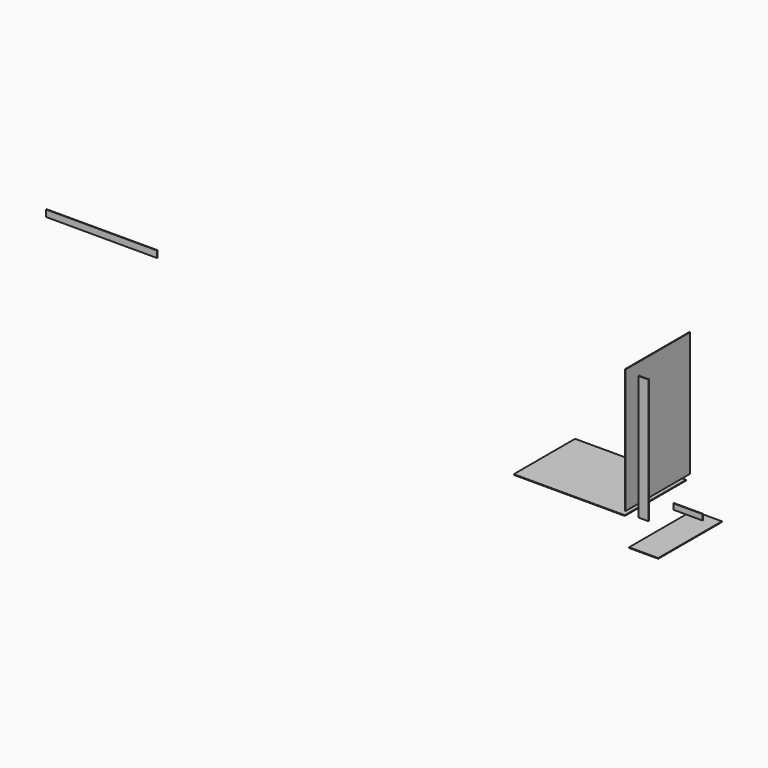
from build123d import *

# Parameters (mm, degrees)
F0_W      = 1063.625
F0_H      = 733.425
F1_DEPTH  = 6.35
F2_W      = 774.7
F2_H      = 1193.8
F3_DEPTH  = 6.35
F4_W      = 95.25
F4_H      = 1193.8
F5_DEPTH  = 6.35
F6_W      = 279.4
F6_H      = 762
F7_DEPTH  = 6.35
F8_W      = 279.4
F8_H      = 53.975
F9_DEPTH  = 6.35
F10_W     = 1063.625
F10_H     = 63.5
F11_DEPTH = 6.35


with BuildPart() as f1:
    # F0 (on Top) → F1 (new body)
    with BuildSketch(Plane.XY):
        Rectangle(F0_W, F0_H)
    extrude(amount=F1_DEPTH)


with BuildPart() as f3:
    # F2 (on face) → F3 (new body)
    with BuildSketch(Plane.YZ.offset(531.8125)):
        with Locations((20.6375, 639.731545)):
            Rectangle(F2_W, F2_H)
    extrude(amount=F3_DEPTH)


with BuildPart() as f5:
    # F4 (on face) → F5 (new body)
    with BuildSketch(Plane.XZ.offset(366.7125)):
        with Locations((716.594691, 629.936415)):
            Rectangle(F4_W, F4_H)
    extrude(amount=F5_DEPTH)


with BuildPart() as f7:
    # F6 (on face) → F7 (new body)
    with BuildSketch(Plane.XY.offset(6.35)):
        with Locations((1028.305773, -381)):
            Rectangle(F6_W, F6_H)
    extrude(amount=F7_DEPTH)


with BuildPart() as f9:
    # F8 (on face) → F9 (new body)
    with BuildSketch(Plane.XZ.offset(366.7125)):
        with Locations((1142.090137, 234.658189)):
            Rectangle(F8_W, F8_H)
    extrude(amount=F9_DEPTH)


with BuildPart() as f11:
    # F10 (on Front) → F11 (new body)
    with BuildSketch(Plane.XZ):
        with Locations((-4766.632781, 509.014101)):
            Rectangle(F10_W, F10_H)
    extrude(amount=F11_DEPTH)


solid = Compound([f1.part, f3.part, f5.part, f7.part, f9.part, f11.part])
